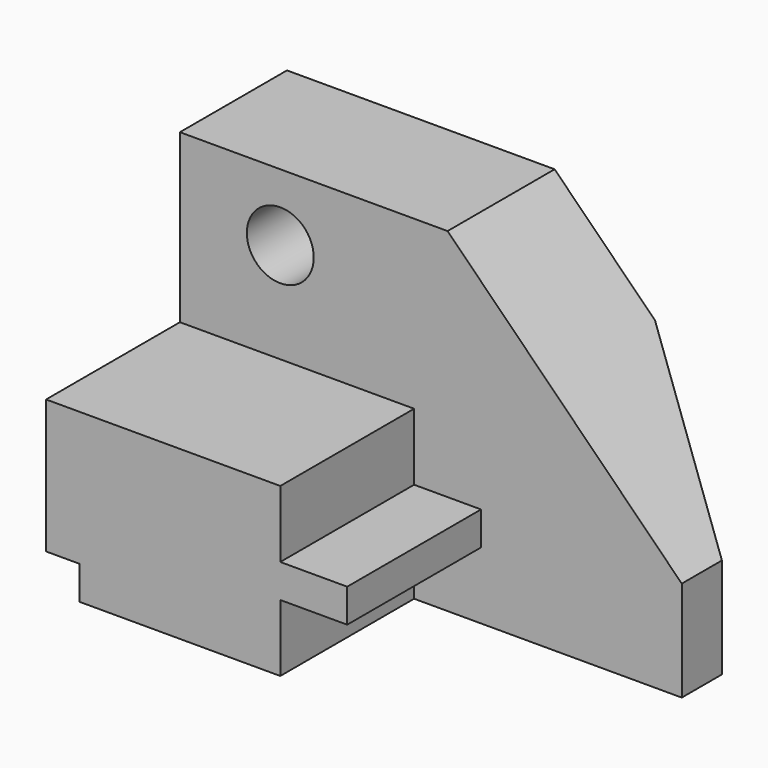
from build123d import *

# Parameters (mm, degrees)
F0_R     = 6.35
F1_DEPTH = 25.4
F2_DEPTH = 57.15
F4_DEPTH = 50.8


with BuildPart() as f1:
    # F0 (on Front) → F1 (new body)
    with BuildSketch(Plane.XZ):
        Polygon((38.1, 12.7), (38.1, 0), (88.9, 0), (88.9, 19.05), (44.45, 63.5), (-6.35, 63.5), (-6.35, 31.75), (38.1, 31.75), (38.1, 19.05), (50.8, 19.05), (50.8, 12.7), align=None)
        with Locations((12.7, 50.8)):
            Circle(F0_R, mode=Mode.SUBTRACT)
    extrude(amount=F1_DEPTH)

    # F0 (on Front) → F2 (join)
    with BuildSketch(Plane.XZ):
        Polygon((0, 6.35), (0, 0), (38.1, 0), (38.1, 12.7), (50.8, 12.7), (50.8, 19.05), (38.1, 19.05), (38.1, 31.75), (-6.35, 31.75), (-6.35, 6.35), align=None)
    extrude(amount=F2_DEPTH)

    # F3 (on face) → F4 (cut)
    with BuildSketch(Plane(origin=(0, 0, 0), x_dir=(1, 0, 0), z_dir=(0, 0, -1))):
        Polygon((88.9, 0), (88.9, 15.875), (63.5, 0), align=None)
    extrude(amount=-F4_DEPTH, mode=Mode.SUBTRACT)


solid = f1.part
